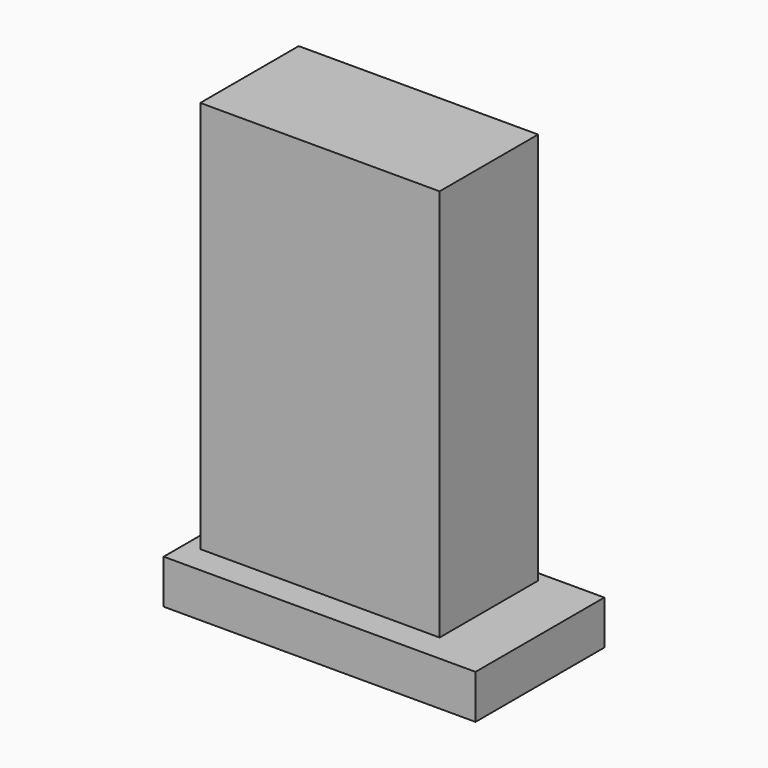
from build123d import *

# Parameters (mm, degrees)
F0_W     = 106.147542
F0_H     = 54.795082
F1_DEPTH = 7.5
F2_W     = 81.475418
F2_H     = 41.885248
F3_DEPTH = 133.7


with BuildPart() as f1:
    # F0 (on Top) → F1 (new body, symmetric)
    with BuildSketch(Plane.XY):
        with Locations((-4.877049, 0)):
            Rectangle(F0_W, F0_H)
    extrude(amount=F1_DEPTH, both=True)

    # F2 (on face) → F3 (join)
    with BuildSketch(Plane.XY.offset(7.5)):
        with Locations((-12.336066, 3.012295)):
            Rectangle(F2_W, F2_H)
    extrude(amount=F3_DEPTH)


solid = f1.part
